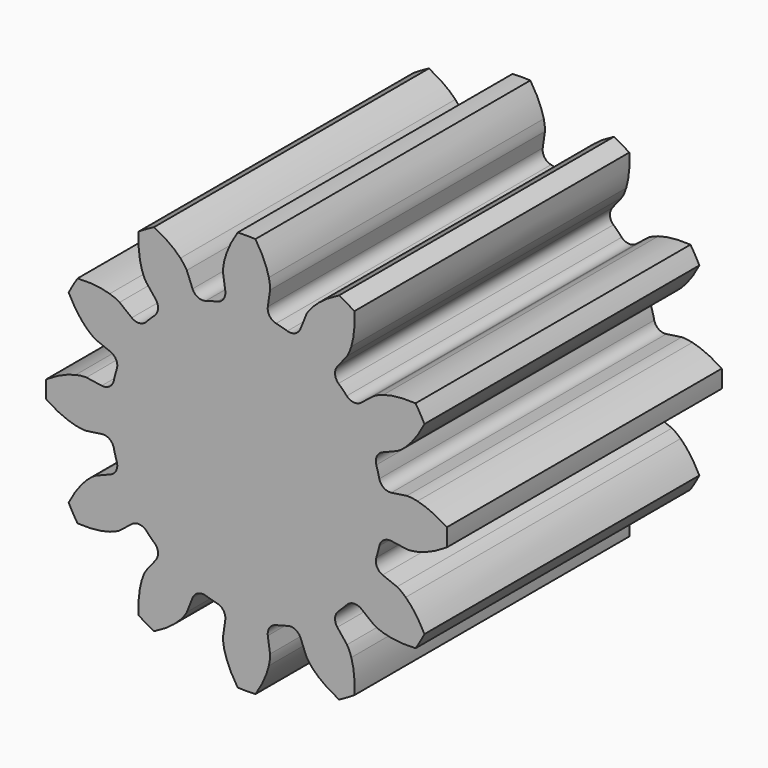
from build123d import *

# Parameters (mm, degrees)
PAD_DEPTH            = 6
BODY_PLACEMENT_ANGLE = 90


with BuildPart() as part:
    # InvoluteGear → Pad (new body)
    with BuildSketch(Plane.XY):
        with BuildLine():
            Line((2.528514, -0.371303), (2.797114, -0.410332))
            add(Edge.make_bspline(
                [(2.797114, -0.410332), (2.817791, -0.411804), (2.879869, -0.41318), (2.984231, -0.389418)],
                knots=[0, 0, 0, 0, 1, 1, 1, 1], degree=3))
            add(Edge.make_bspline(
                [(2.984231, -0.389418), (3.108457, -0.360405), (3.285345, -0.29598), (3.497257, -0.154878)],
                knots=[0, 0, 0, 0, 1, 1, 1, 1], degree=3))
            ThreePointArc((3.497257, -0.154878), (3.500685, 0), (3.497257, 0.154878))
            add(Edge.make_bspline(
                [(3.497257, 0.154878), (3.285345, 0.29598), (3.108457, 0.360405), (2.984231, 0.389418)],
                knots=[0, 0, 0, 0, 1, 1, 1, 1], degree=3))
            add(Edge.make_bspline(
                [(2.984231, 0.389418), (2.879869, 0.41318), (2.817791, 0.411804), (2.797114, 0.410332)],
                knots=[0, 0, 0, 0, 1, 1, 1, 1], degree=3))
            Line((2.797114, 0.410332), (2.528514, 0.371303))
            ThreePointArc((2.528514, 0.371303), (2.395133, 0.402247), (2.318354, 0.515617))
            ThreePointArc((2.318354, 0.515617), (2.294074, 0.614695), (2.265562, 0.712639))
            ThreePointArc((2.265562, 0.712639), (2.27537, 0.849211), (2.375409, 0.9427))
            Line((2.375409, 0.9427), (2.627538, 1.043199))
            add(Edge.make_bspline(
                [(2.627538, 1.043199), (2.646181, 1.052262), (2.700629, 1.08211), (2.779129, 1.154869)],
                knots=[0, 0, 0, 0, 1, 1, 1, 1], degree=3))
            add(Edge.make_bspline(
                [(2.779129, 1.154869), (2.872205, 1.242109), (2.993182, 1.386346), (3.106152, 1.6145)],
                knots=[0, 0, 0, 0, 1, 1, 1, 1], degree=3))
            ThreePointArc((3.106152, 1.6145), (3.031682, 1.750343), (2.951274, 1.882757))
            add(Edge.make_bspline(
                [(2.951274, 1.882757), (2.697202, 1.898999), (2.5118, 1.866348), (2.389711, 1.829362)],
                knots=[0, 0, 0, 0, 1, 1, 1, 1], degree=3))
            add(Edge.make_bspline(
                [(2.389711, 1.829362), (2.28745, 1.797759), (2.234376, 1.765528), (2.217206, 1.753915)],
                knots=[0, 0, 0, 0, 1, 1, 1, 1], degree=3))
            Line((2.217206, 1.753915), (2.004106, 1.585815))
            ThreePointArc((2.004106, 1.585815), (1.873123, 1.545922), (1.749945, 1.605714))
            ThreePointArc((1.749945, 1.605714), (1.679379, 1.679379), (1.605714, 1.749945))
            ThreePointArc((1.605714, 1.749945), (1.545922, 1.873123), (1.585815, 2.004106))
            Line((1.585815, 2.004106), (1.753915, 2.217206))
            add(Edge.make_bspline(
                [(1.753915, 2.217206), (1.765528, 2.234376), (1.797759, 2.28745), (1.829362, 2.389711)],
                knots=[0, 0, 0, 0, 1, 1, 1, 1], degree=3))
            add(Edge.make_bspline(
                [(1.829362, 2.389711), (1.866348, 2.5118), (1.898999, 2.697202), (1.882757, 2.951274)],
                knots=[0, 0, 0, 0, 1, 1, 1, 1], degree=3))
            ThreePointArc((1.882757, 2.951274), (1.750343, 3.031682), (1.6145, 3.106152))
            add(Edge.make_bspline(
                [(1.6145, 3.106152), (1.386346, 2.993182), (1.242109, 2.872205), (1.154869, 2.779129)],
                knots=[0, 0, 0, 0, 1, 1, 1, 1], degree=3))
            add(Edge.make_bspline(
                [(1.154869, 2.779129), (1.08211, 2.700629), (1.052262, 2.646181), (1.043199, 2.627538)],
                knots=[0, 0, 0, 0, 1, 1, 1, 1], degree=3))
            Line((1.043199, 2.627538), (0.9427, 2.375409))
            ThreePointArc((0.9427, 2.375409), (0.849211, 2.27537), (0.712639, 2.265562))
            ThreePointArc((0.712639, 2.265562), (0.614695, 2.294074), (0.515617, 2.318354))
            ThreePointArc((0.515617, 2.318354), (0.402247, 2.395133), (0.371303, 2.528514))
            Line((0.371303, 2.528514), (0.410332, 2.797114))
            add(Edge.make_bspline(
                [(0.410332, 2.797114), (0.411804, 2.817791), (0.41318, 2.879869), (0.389418, 2.984231)],
                knots=[0, 0, 0, 0, 1, 1, 1, 1], degree=3))
            add(Edge.make_bspline(
                [(0.389418, 2.984231), (0.360405, 3.108457), (0.29598, 3.285345), (0.154878, 3.497257)],
                knots=[0, 0, 0, 0, 1, 1, 1, 1], degree=3))
            ThreePointArc((0.154878, 3.497257), (0, 3.500685), (-0.154878, 3.497257))
            add(Edge.make_bspline(
                [(-0.154878, 3.497257), (-0.29598, 3.285345), (-0.360405, 3.108457), (-0.389418, 2.984231)],
                knots=[0, 0, 0, 0, 1, 1, 1, 1], degree=3))
            add(Edge.make_bspline(
                [(-0.389418, 2.984231), (-0.41318, 2.879869), (-0.411804, 2.817791), (-0.410332, 2.797114)],
                knots=[0, 0, 0, 0, 1, 1, 1, 1], degree=3))
            Line((-0.410332, 2.797114), (-0.371303, 2.528514))
            ThreePointArc((-0.371303, 2.528514), (-0.402247, 2.395133), (-0.515617, 2.318354))
            ThreePointArc((-0.515617, 2.318354), (-0.614695, 2.294074), (-0.712639, 2.265562))
            ThreePointArc((-0.712639, 2.265562), (-0.849211, 2.27537), (-0.9427, 2.375409))
            Line((-0.9427, 2.375409), (-1.043199, 2.627538))
            add(Edge.make_bspline(
                [(-1.043199, 2.627538), (-1.052262, 2.646181), (-1.08211, 2.700629), (-1.154869, 2.779129)],
                knots=[0, 0, 0, 0, 1, 1, 1, 1], degree=3))
            add(Edge.make_bspline(
                [(-1.154869, 2.779129), (-1.242109, 2.872205), (-1.386346, 2.993182), (-1.6145, 3.106152)],
                knots=[0, 0, 0, 0, 1, 1, 1, 1], degree=3))
            ThreePointArc((-1.6145, 3.106152), (-1.750343, 3.031682), (-1.882757, 2.951274))
            add(Edge.make_bspline(
                [(-1.882757, 2.951274), (-1.898999, 2.697202), (-1.866348, 2.5118), (-1.829362, 2.389711)],
                knots=[0, 0, 0, 0, 1, 1, 1, 1], degree=3))
            add(Edge.make_bspline(
                [(-1.829362, 2.389711), (-1.797759, 2.28745), (-1.765528, 2.234376), (-1.753915, 2.217206)],
                knots=[0, 0, 0, 0, 1, 1, 1, 1], degree=3))
            Line((-1.753915, 2.217206), (-1.585815, 2.004106))
            ThreePointArc((-1.585815, 2.004106), (-1.545922, 1.873123), (-1.605714, 1.749945))
            ThreePointArc((-1.605714, 1.749945), (-1.679379, 1.679379), (-1.749945, 1.605714))
            ThreePointArc((-1.749945, 1.605714), (-1.873123, 1.545922), (-2.004106, 1.585815))
            Line((-2.004106, 1.585815), (-2.217206, 1.753915))
            add(Edge.make_bspline(
                [(-2.217206, 1.753915), (-2.234376, 1.765528), (-2.28745, 1.797759), (-2.389711, 1.829362)],
                knots=[0, 0, 0, 0, 1, 1, 1, 1], degree=3))
            add(Edge.make_bspline(
                [(-2.389711, 1.829362), (-2.5118, 1.866348), (-2.697202, 1.898999), (-2.951274, 1.882757)],
                knots=[0, 0, 0, 0, 1, 1, 1, 1], degree=3))
            ThreePointArc((-2.951274, 1.882757), (-3.031682, 1.750343), (-3.106152, 1.6145))
            add(Edge.make_bspline(
                [(-3.106152, 1.6145), (-2.993182, 1.386346), (-2.872205, 1.242109), (-2.779129, 1.154869)],
                knots=[0, 0, 0, 0, 1, 1, 1, 1], degree=3))
            add(Edge.make_bspline(
                [(-2.779129, 1.154869), (-2.700629, 1.08211), (-2.646181, 1.052262), (-2.627538, 1.043199)],
                knots=[0, 0, 0, 0, 1, 1, 1, 1], degree=3))
            Line((-2.627538, 1.043199), (-2.375409, 0.9427))
            ThreePointArc((-2.375409, 0.9427), (-2.27537, 0.849211), (-2.265562, 0.712639))
            ThreePointArc((-2.265562, 0.712639), (-2.294074, 0.614695), (-2.318354, 0.515617))
            ThreePointArc((-2.318354, 0.515617), (-2.395133, 0.402247), (-2.528514, 0.371303))
            Line((-2.528514, 0.371303), (-2.797114, 0.410332))
            add(Edge.make_bspline(
                [(-2.797114, 0.410332), (-2.817791, 0.411804), (-2.879869, 0.41318), (-2.984231, 0.389418)],
                knots=[0, 0, 0, 0, 1, 1, 1, 1], degree=3))
            add(Edge.make_bspline(
                [(-2.984231, 0.389418), (-3.108457, 0.360405), (-3.285345, 0.29598), (-3.497257, 0.154878)],
                knots=[0, 0, 0, 0, 1, 1, 1, 1], degree=3))
            ThreePointArc((-3.497257, 0.154878), (-3.500685, 0), (-3.497257, -0.154878))
            add(Edge.make_bspline(
                [(-3.497257, -0.154878), (-3.285345, -0.29598), (-3.108457, -0.360405), (-2.984231, -0.389418)],
                knots=[0, 0, 0, 0, 1, 1, 1, 1], degree=3))
            add(Edge.make_bspline(
                [(-2.984231, -0.389418), (-2.879869, -0.41318), (-2.817791, -0.411804), (-2.797114, -0.410332)],
                knots=[0, 0, 0, 0, 1, 1, 1, 1], degree=3))
            Line((-2.797114, -0.410332), (-2.528514, -0.371303))
            ThreePointArc((-2.528514, -0.371303), (-2.395133, -0.402247), (-2.318354, -0.515617))
            ThreePointArc((-2.318354, -0.515617), (-2.294074, -0.614695), (-2.265562, -0.712639))
            ThreePointArc((-2.265562, -0.712639), (-2.27537, -0.849211), (-2.375409, -0.9427))
            Line((-2.375409, -0.9427), (-2.627538, -1.043199))
            add(Edge.make_bspline(
                [(-2.627538, -1.043199), (-2.646181, -1.052262), (-2.700629, -1.08211), (-2.779129, -1.154869)],
                knots=[0, 0, 0, 0, 1, 1, 1, 1], degree=3))
            add(Edge.make_bspline(
                [(-2.779129, -1.154869), (-2.872205, -1.242109), (-2.993182, -1.386346), (-3.106152, -1.6145)],
                knots=[0, 0, 0, 0, 1, 1, 1, 1], degree=3))
            ThreePointArc((-3.106152, -1.6145), (-3.031682, -1.750343), (-2.951274, -1.882757))
            add(Edge.make_bspline(
                [(-2.951274, -1.882757), (-2.697202, -1.898999), (-2.5118, -1.866348), (-2.389711, -1.829362)],
                knots=[0, 0, 0, 0, 1, 1, 1, 1], degree=3))
            add(Edge.make_bspline(
                [(-2.389711, -1.829362), (-2.28745, -1.797759), (-2.234376, -1.765528), (-2.217206, -1.753915)],
                knots=[0, 0, 0, 0, 1, 1, 1, 1], degree=3))
            Line((-2.217206, -1.753915), (-2.004106, -1.585815))
            ThreePointArc((-2.004106, -1.585815), (-1.873123, -1.545922), (-1.749945, -1.605714))
            ThreePointArc((-1.749945, -1.605714), (-1.679379, -1.679379), (-1.605714, -1.749945))
            ThreePointArc((-1.605714, -1.749945), (-1.545922, -1.873123), (-1.585815, -2.004106))
            Line((-1.585815, -2.004106), (-1.753915, -2.217206))
            add(Edge.make_bspline(
                [(-1.753915, -2.217206), (-1.765528, -2.234376), (-1.797759, -2.28745), (-1.829362, -2.389711)],
                knots=[0, 0, 0, 0, 1, 1, 1, 1], degree=3))
            add(Edge.make_bspline(
                [(-1.829362, -2.389711), (-1.866348, -2.5118), (-1.898999, -2.697202), (-1.882757, -2.951274)],
                knots=[0, 0, 0, 0, 1, 1, 1, 1], degree=3))
            ThreePointArc((-1.882757, -2.951274), (-1.750343, -3.031682), (-1.6145, -3.106152))
            add(Edge.make_bspline(
                [(-1.6145, -3.106152), (-1.386346, -2.993182), (-1.242109, -2.872205), (-1.154869, -2.779129)],
                knots=[0, 0, 0, 0, 1, 1, 1, 1], degree=3))
            add(Edge.make_bspline(
                [(-1.154869, -2.779129), (-1.08211, -2.700629), (-1.052262, -2.646181), (-1.043199, -2.627538)],
                knots=[0, 0, 0, 0, 1, 1, 1, 1], degree=3))
            Line((-1.043199, -2.627538), (-0.9427, -2.375409))
            ThreePointArc((-0.9427, -2.375409), (-0.849211, -2.27537), (-0.712639, -2.265562))
            ThreePointArc((-0.712639, -2.265562), (-0.614695, -2.294074), (-0.515617, -2.318354))
            ThreePointArc((-0.515617, -2.318354), (-0.402247, -2.395133), (-0.371303, -2.528514))
            Line((-0.371303, -2.528514), (-0.410332, -2.797114))
            add(Edge.make_bspline(
                [(-0.410332, -2.797114), (-0.411804, -2.817791), (-0.41318, -2.879869), (-0.389418, -2.984231)],
                knots=[0, 0, 0, 0, 1, 1, 1, 1], degree=3))
            add(Edge.make_bspline(
                [(-0.389418, -2.984231), (-0.360405, -3.108457), (-0.29598, -3.285345), (-0.154878, -3.497257)],
                knots=[0, 0, 0, 0, 1, 1, 1, 1], degree=3))
            ThreePointArc((-0.154878, -3.497257), (0, -3.500685), (0.154878, -3.497257))
            add(Edge.make_bspline(
                [(0.154878, -3.497257), (0.29598, -3.285345), (0.360405, -3.108457), (0.389418, -2.984231)],
                knots=[0, 0, 0, 0, 1, 1, 1, 1], degree=3))
            add(Edge.make_bspline(
                [(0.389418, -2.984231), (0.41318, -2.879869), (0.411804, -2.817791), (0.410332, -2.797114)],
                knots=[0, 0, 0, 0, 1, 1, 1, 1], degree=3))
            Line((0.410332, -2.797114), (0.371303, -2.528514))
            ThreePointArc((0.371303, -2.528514), (0.402247, -2.395133), (0.515617, -2.318354))
            ThreePointArc((0.515617, -2.318354), (0.614695, -2.294074), (0.712639, -2.265562))
            ThreePointArc((0.712639, -2.265562), (0.849211, -2.27537), (0.9427, -2.375409))
            Line((0.9427, -2.375409), (1.043199, -2.627538))
            add(Edge.make_bspline(
                [(1.043199, -2.627538), (1.052262, -2.646181), (1.08211, -2.700629), (1.154869, -2.779129)],
                knots=[0, 0, 0, 0, 1, 1, 1, 1], degree=3))
            add(Edge.make_bspline(
                [(1.154869, -2.779129), (1.242109, -2.872205), (1.386346, -2.993182), (1.6145, -3.106152)],
                knots=[0, 0, 0, 0, 1, 1, 1, 1], degree=3))
            ThreePointArc((1.6145, -3.106152), (1.750343, -3.031682), (1.882757, -2.951274))
            add(Edge.make_bspline(
                [(1.882757, -2.951274), (1.898999, -2.697202), (1.866348, -2.5118), (1.829362, -2.389711)],
                knots=[0, 0, 0, 0, 1, 1, 1, 1], degree=3))
            add(Edge.make_bspline(
                [(1.829362, -2.389711), (1.797759, -2.28745), (1.765528, -2.234376), (1.753915, -2.217206)],
                knots=[0, 0, 0, 0, 1, 1, 1, 1], degree=3))
            Line((1.753915, -2.217206), (1.585815, -2.004106))
            ThreePointArc((1.585815, -2.004106), (1.545922, -1.873123), (1.605714, -1.749945))
            ThreePointArc((1.605714, -1.749945), (1.679379, -1.679379), (1.749945, -1.605714))
            ThreePointArc((1.749945, -1.605714), (1.873123, -1.545922), (2.004106, -1.585815))
            Line((2.004106, -1.585815), (2.217206, -1.753915))
            add(Edge.make_bspline(
                [(2.217206, -1.753915), (2.234376, -1.765528), (2.28745, -1.797759), (2.389711, -1.829362)],
                knots=[0, 0, 0, 0, 1, 1, 1, 1], degree=3))
            add(Edge.make_bspline(
                [(2.389711, -1.829362), (2.5118, -1.866348), (2.697202, -1.898999), (2.951274, -1.882757)],
                knots=[0, 0, 0, 0, 1, 1, 1, 1], degree=3))
            ThreePointArc((2.951274, -1.882757), (3.031682, -1.750343), (3.106152, -1.6145))
            add(Edge.make_bspline(
                [(3.106152, -1.6145), (2.993182, -1.386346), (2.872205, -1.242109), (2.779129, -1.154869)],
                knots=[0, 0, 0, 0, 1, 1, 1, 1], degree=3))
            add(Edge.make_bspline(
                [(2.779129, -1.154869), (2.700629, -1.08211), (2.646181, -1.052262), (2.627538, -1.043199)],
                knots=[0, 0, 0, 0, 1, 1, 1, 1], degree=3))
            Line((2.627538, -1.043199), (2.375409, -0.9427))
            ThreePointArc((2.375409, -0.9427), (2.27537, -0.849211), (2.265562, -0.712639))
            ThreePointArc((2.265562, -0.712639), (2.294074, -0.614695), (2.318354, -0.515617))
            ThreePointArc((2.318354, -0.515617), (2.395133, -0.402247), (2.528514, -0.371303))
        make_face()
    extrude(amount=PAD_DEPTH)


with BuildPart() as part_1:
    # Body placement: moved
    add(part.part.moved(Location((0, 100, 0))).rotate(Axis((0, 100, 0), (1, 0, 0)), BODY_PLACEMENT_ANGLE))


solid = part_1.part
